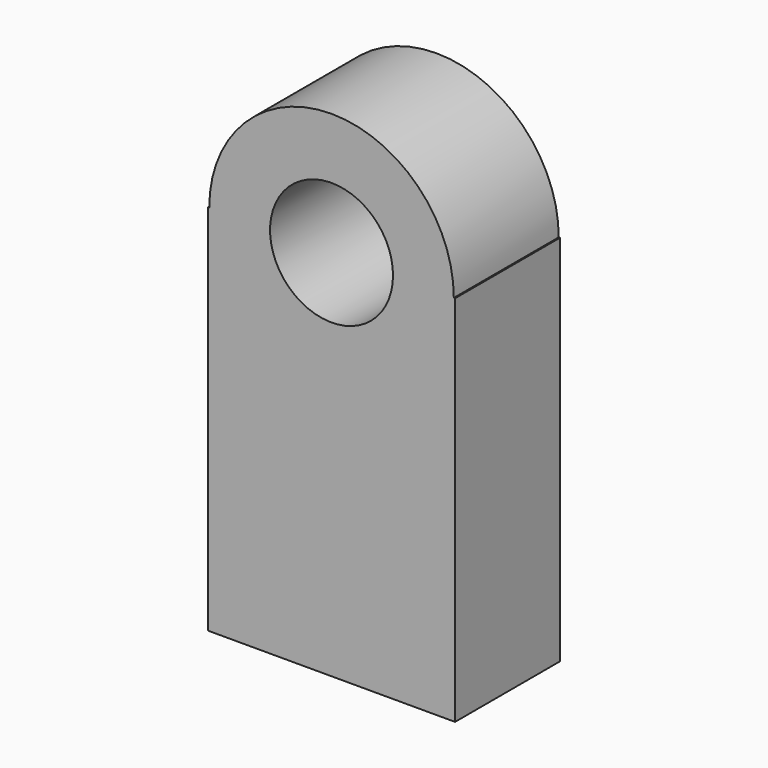
from build123d import *

# Parameters (mm, degrees)
F0_R     = 14.059963
F1_DEPTH = 30


with BuildPart() as f1:
    # F0 (on Front) → F1 (new body)
    with BuildSketch(Plane.XZ):
        with BuildLine():
            Line((28.253531, -42.646307), (28.253531, 42.646307))
            Line((28.253531, 42.646307), (27.968869, 42.646307))
            ThreePointArc((27.968869, 42.646307), (0, 70.615176), (-27.968869, 42.646307))
            Line((-27.968869, 42.646307), (-28.253531, 42.646307))
            Line((-28.253531, 42.646307), (-28.253531, -42.646307))
            Line((-28.253531, -42.646307), (28.253531, -42.646307))
        make_face()
        with Locations((0, 42.646307)):
            Circle(F0_R, mode=Mode.SUBTRACT)
    extrude(amount=F1_DEPTH)


solid = f1.part
